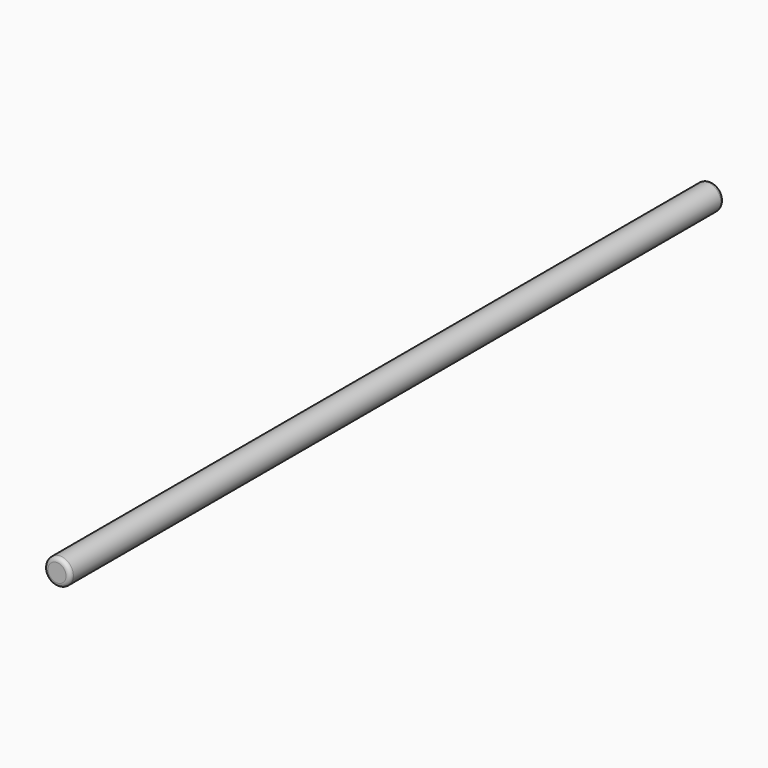
from build123d import *

# Parameters (mm, degrees)
SKETCH002_R              = 3.2
PAD001_DEPTH             = 200
FILLET_R                 = 1
FILLET001_R              = 1
CLONE001_PLACEMENT_ANGLE = 90
CLONE002_PLACEMENT_ANGLE = 90


with BuildPart() as part:
    # Sketch002 (on DatumPlane) → Pad001 (new body)
    with BuildSketch(Plane(origin=(0, -40, 70), x_dir=(1, 0, 0), z_dir=(0, -1, 0))):
        with Locations((20, -50)):
            Circle(SKETCH002_R)
    extrude(amount=-PAD001_DEPTH)

    # Fillet
    fillet_edges = [part.edges().sort_by_distance(p)[0] for p in [
        (16.8, -40, 20),
    ]]
    fillet(fillet_edges, radius=FILLET_R)

    # Fillet001
    fillet001_edges = [part.edges().sort_by_distance(p)[0] for p in [
        (16.8, 160, 20),
    ]]
    fillet(fillet001_edges, radius=FILLET001_R)


with BuildPart() as part_1:
    # Clone001 placement: moved
    add(part.part.rotate(Axis((0, 0, 0), (0, 1, 0)), CLONE001_PLACEMENT_ANGLE))


with BuildPart() as part_2:
    # Clone002 placement: moved
    add(part_1.part.rotate(Axis((0, 0, 0), (0, 1, 0)), CLONE002_PLACEMENT_ANGLE))


solid = part_2.part
